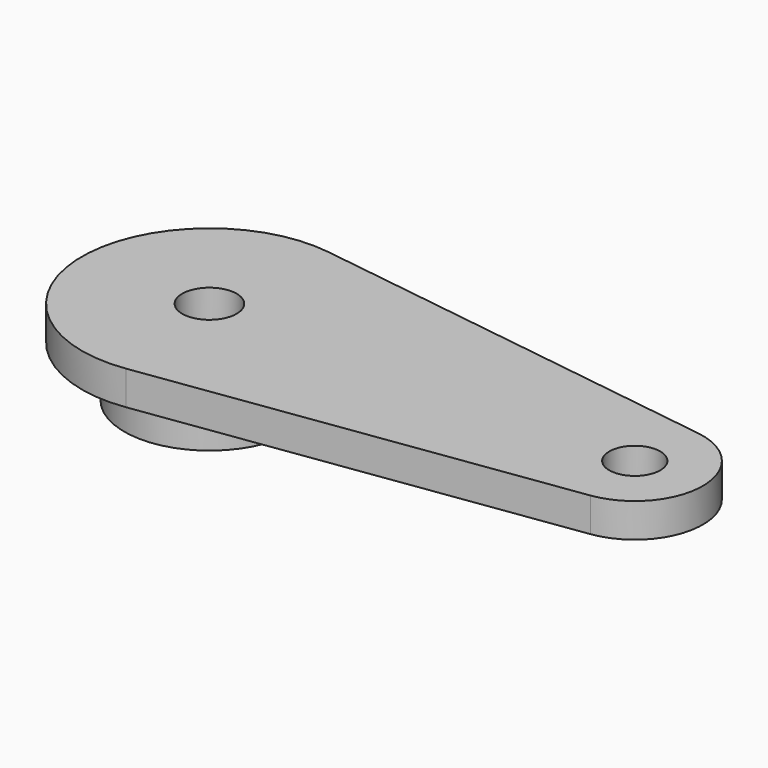
from build123d import *

# Parameters (mm, degrees)
F0_R     = 1.6
F0_R_2   = 1.5
F1_DEPTH = 2
F2_R     = 5
F2_R_2   = 2.9
F3_DEPTH = 3


with BuildPart() as f1:
    # F0 (on Top) → F1 (new body)
    with BuildSketch(Plane.XY):
        with BuildLine():
            Line((25.56, 3.960606), (1.05, 7.426136))
            ThreePointArc((1.05, 7.426136), (-7.5, 0), (1.05, -7.426136))
            Line((1.05, -7.426136), (25.56, -3.960606))
            ThreePointArc((25.56, -3.960606), (29, 0), (25.56, 3.960606))
        make_face()
        Circle(F0_R, mode=Mode.SUBTRACT)
        with Locations((25, 0)):
            Circle(F0_R_2, mode=Mode.SUBTRACT)
    extrude(amount=F1_DEPTH)

    # F2 (on face) → F3 (join)
    with BuildSketch(Plane(origin=(0, 0, 0), x_dir=(1, 0, 0), z_dir=(0, 0, -1))):
        Circle(F2_R)
        Circle(F2_R_2, mode=Mode.SUBTRACT)
    extrude(amount=F3_DEPTH)


solid = f1.part
